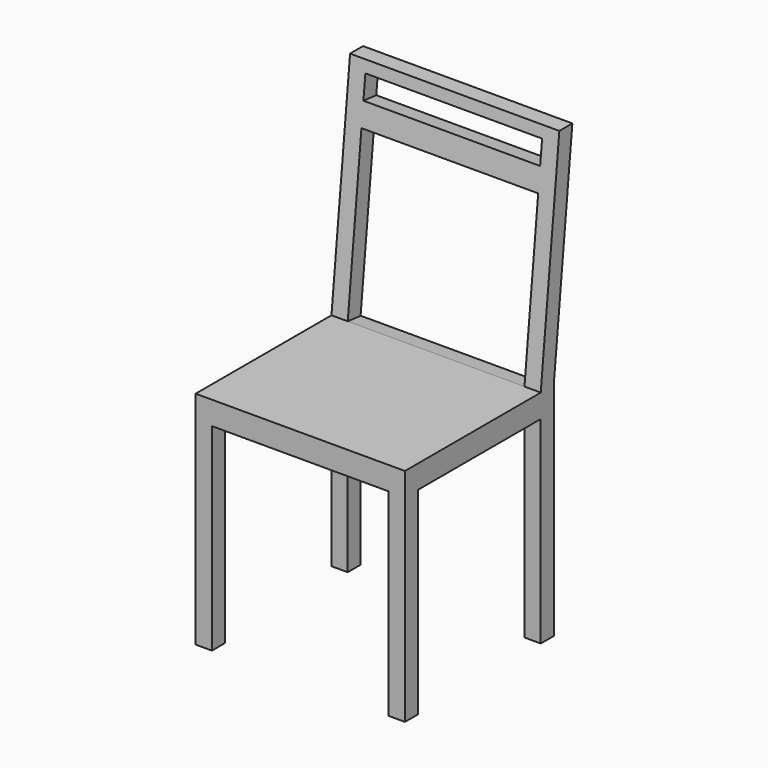
from build123d import *

# Parameters (mm, degrees)
F0_W     = 450
F0_H     = 450
F1_DEPTH = 950
F2_W     = 50
F2_H     = 50
F2_H_2   = 425
F2_W_2   = 330
F3_DEPTH = 450.001
F4_W     = 380
F4_H     = 425
F5_DEPTH = 450.001
F6_W     = 380
F6_H     = 50
F6_H_2   = 352.6243293636
F7_DEPTH = 134.2592361444


with BuildPart() as f1:
    # F0 (on Top) → F1 (new body)
    with BuildSketch(Plane.XY):
        Rectangle(F0_W, F0_H)
    extrude(amount=F1_DEPTH)

    # F2 (on face) → F3 (cut, through all)
    with BuildSketch(Plane.YZ.offset(225)):
        Polygon((-225, 475), (140, 475), (190, 950), (-225, 950), align=None)
        Polygon((175, 475), (225, 475), (225, 950), align=None)
        with Locations((200, 450)):
            Rectangle(F2_W, F2_H)
        with Locations((200, 212.5)):
            Rectangle(F2_W, F2_H_2)
        with Locations((-25, 212.5)):
            Rectangle(F2_W_2, F2_H_2)
    extrude(amount=-F3_DEPTH, mode=Mode.SUBTRACT)

    # F4 (on face) → F5 (cut, through all)
    with BuildSketch(Plane.XZ.offset(225)):
        with Locations((0, 212.5)):
            Rectangle(F4_W, F4_H)
    extrude(amount=-F5_DEPTH, mode=Mode.SUBTRACT)

    # F6 (on face) → F7 (cut, through all)
    with BuildSketch(Plane(origin=(0, 89.0136986301, -9.3698630137), x_dir=(1, 0, 0), z_dir=(0, -0.9945054529, 0.1046847845))):
        with Locations((0, 914.6702893338)):
            Rectangle(F6_W, F6_H)
        with Locations((0, 663.358124652)):
            Rectangle(F6_W, F6_H_2)
    extrude(amount=-F7_DEPTH, mode=Mode.SUBTRACT)


solid = f1.part
